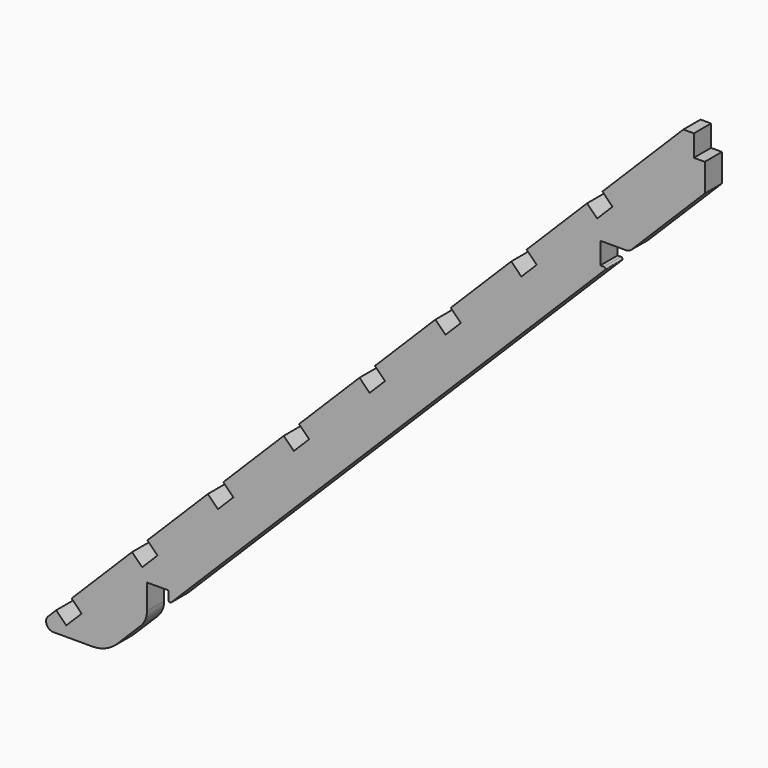
from build123d import *

# Parameters (mm, degrees)
F1_DEPTH = 3


with BuildPart() as f1:
    # F0 (on Front) → F1 (new body)
    with BuildSketch(Plane.XZ):
        with BuildLine():
            Line((-69.494447, 9.719306), (-77.951444, 1.262309))
            Line((-77.951444, 1.262309), (-76.53723, -0.151905))
            Line((-76.53723, -0.151905), (-78.686835, -2.301509))
            Line((-78.686835, -2.301509), (-80.101048, -0.887296))
            Line((-80.101048, -0.887296), (-88.558047, -9.344294))
            Line((-88.558047, -9.344294), (-87.143833, -10.758507))
            Line((-87.143833, -10.758507), (-89.295505, -12.906043))
            Line((-89.295505, -12.906043), (-90.70765, -11.493897))
            Line((-90.70765, -11.493897), (-91.828971, -12.615218))
            ThreePointArc((-91.828971, -12.615218), (-92.045743, -13.705008), (-91.121864, -14.322324))
            Line((-91.121864, -14.322324), (-85.70465, -14.322324))
            ThreePointArc((-85.70465, -14.322324), (-83.724151, -13.913362), (-82.067632, -12.753374))
            Line((-82.067632, -12.753374), (-78.88868, -9.574422))
            ThreePointArc((-78.88868, -9.574422), (-78.238361, -8.601152), (-78.01, -7.453101))
            Line((-78.01, -7.453101), (-78.01, -3.945742))
            Line((-78.01, -3.945742), (-74.97, -3.945742))
            Line((-74.97, -3.945742), (-74.97, -5.172899))
            ThreePointArc((-74.97, -5.172899), (-74.846537, -5.357675), (-74.628579, -5.314321))
            Line((-74.628579, -5.314321), (-70.549116, -1.234858))
            Line((-70.549116, -1.234858), (-13.951421, 55.362837))
            ThreePointArc((-13.951421, 55.362837), (-13.908067, 55.580795), (-14.092843, 55.704258))
            Line((-14.092843, 55.704258), (-14.61, 55.704258))
            Line((-14.61, 55.704258), (-14.61, 58.744258))
            Line((-14.61, 58.744258), (-10.984214, 58.744258))
            ThreePointArc((-10.984214, 58.744258), (-10.60153, 58.820378), (-10.277107, 59.037151))
            Line((-10.277107, 59.037151), (-5.361421, 63.952837))
            Line((-5.361421, 63.952837), (-1.98, 67.334258))
            Line((-1.98, 67.334258), (0, 69.314258))
            Line((0, 69.314258), (0, 73.213753))
            Line((0, 73.213753), (-1.52, 73.213753))
            Line((-1.52, 73.213753), (-1.52, 76.22285))
            Line((-1.52, 76.22285), (-2.990903, 76.22285))
            Line((-2.990903, 76.22285), (-14.311834, 64.901919))
            Line((-14.311834, 64.901919), (-12.89762, 63.487706))
            Line((-12.89762, 63.487706), (-15.047225, 61.338101))
            Line((-15.047225, 61.338101), (-16.461438, 62.752315))
            Line((-16.461438, 62.752315), (-24.918435, 54.295318))
            Line((-24.918435, 54.295318), (-23.504222, 52.881104))
            Line((-23.504222, 52.881104), (-25.653826, 50.731499))
            Line((-25.653826, 50.731499), (-27.06804, 52.145713))
            Line((-27.06804, 52.145713), (-35.525037, 43.688716))
            Line((-35.525037, 43.688716), (-34.110823, 42.274502))
            Line((-34.110823, 42.274502), (-36.260428, 40.124898))
            Line((-36.260428, 40.124898), (-37.674642, 41.539111))
            Line((-37.674642, 41.539111), (-46.131639, 33.082114))
            Line((-46.131639, 33.082114), (-44.717425, 31.667901))
            Line((-44.717425, 31.667901), (-46.86703, 29.518296))
            Line((-46.86703, 29.518296), (-48.281243, 30.93251))
            Line((-48.281243, 30.93251), (-56.73824, 22.475512))
            Line((-56.73824, 22.475512), (-55.324027, 21.061299))
            Line((-55.324027, 21.061299), (-57.473631, 18.911694))
            Line((-57.473631, 18.911694), (-58.887845, 20.325908))
            Line((-58.887845, 20.325908), (-67.344842, 11.868911))
            Line((-67.344842, 11.868911), (-65.930629, 10.454697))
            Line((-65.930629, 10.454697), (-68.080233, 8.305093))
            Line((-68.080233, 8.305093), (-69.494447, 9.719306))
        make_face()
    extrude(amount=F1_DEPTH)


solid = f1.part
